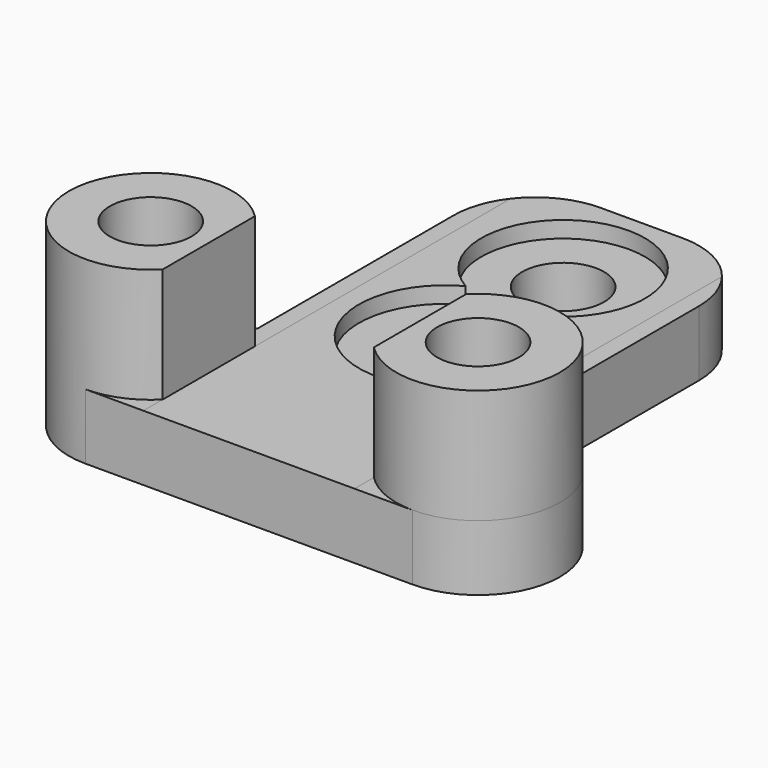
from build123d import *

# Parameters (mm, degrees)
SKETCH_R          = 2.5
SKETCH_R_2        = 2.499821
PAD_DEPTH         = 4
SKETCH001_R       = 5
SKETCH001_R_2     = 2.5
PAD001_DEPTH      = 7
FILLET_R          = 5
SKETCH002_W       = 12.9
SKETCH002_H       = 8.550953
POCKET_DEPTH      = 25.001
POCKET_DEPTH_BACK = 5.001
SKETCH003_R       = 5
SKETCH003_R_2     = 5.281206
POCKET001_DEPTH   = 1


with BuildPart() as part:
    # Sketch → Pad (new body)
    with BuildSketch(Plane.XY):
        with BuildLine():
            Line((-10, -5), (10, -5))
            ThreePointArc((10, -5), (15, -0.000187), (10.000374, 5))
            Line((7.5, 5), (10.000374, 5))
            Line((7.5, 25), (7.5, 5))
            Line((-7.5, 25), (7.5, 25))
            Line((-7.5, 25), (-7.5, 5))
            Line((-7.5, 5), (-9.999626, 5))
            ThreePointArc((-9.999626, 5), (-15, 0.000187), (-10, -5))
        make_face()
        with Locations((-10, 0)):
            Circle(SKETCH_R, mode=Mode.SUBTRACT)
        with Locations((10, 0)):
            Circle(SKETCH_R, mode=Mode.SUBTRACT)
        with Locations((0, 19)):
            Circle(SKETCH_R_2, mode=Mode.SUBTRACT)
        with Locations((0, 10)):
            Circle(SKETCH_R_2, mode=Mode.SUBTRACT)
    extrude(amount=PAD_DEPTH)

    # Sketch001 (on Face14 of Pad) → Pad001 (join)
    with BuildSketch(Plane.XY.offset(4)):
        with Locations((10, 0)):
            Circle(SKETCH001_R)
        with Locations((10, 0)):
            Circle(SKETCH001_R_2, mode=Mode.SUBTRACT)
        with Locations((-10, 0)):
            Circle(SKETCH001_R)
        with Locations((-10, 0)):
            Circle(SKETCH001_R_2, mode=Mode.SUBTRACT)
    extrude(amount=PAD001_DEPTH)

    # Fillet
    fillet_edges = [part.edges().sort_by_distance(p)[0] for p in [
        (-7.5, 25, 2),
        (7.5, 25, 2),
    ]]
    fillet(fillet_edges, radius=FILLET_R)

    # Sketch002 → Pocket (cut, two sides)
    with BuildSketch(Plane.XZ) as pocket_sk:
        with Locations((0, 8.275476)):
            Rectangle(SKETCH002_W, SKETCH002_H)
    extrude(amount=-POCKET_DEPTH, mode=Mode.SUBTRACT)
    extrude(pocket_sk.sketch, amount=POCKET_DEPTH_BACK, mode=Mode.SUBTRACT)

    # Sketch003 (on Face19 of Pocket) → Pocket001 (cut)
    with BuildSketch(Plane.XY.offset(4)):
        with Locations((0, 19)):
            Circle(SKETCH003_R)
        with Locations((0, 10)):
            Circle(SKETCH003_R_2)
    extrude(amount=-POCKET001_DEPTH, mode=Mode.SUBTRACT)


solid = part.part
